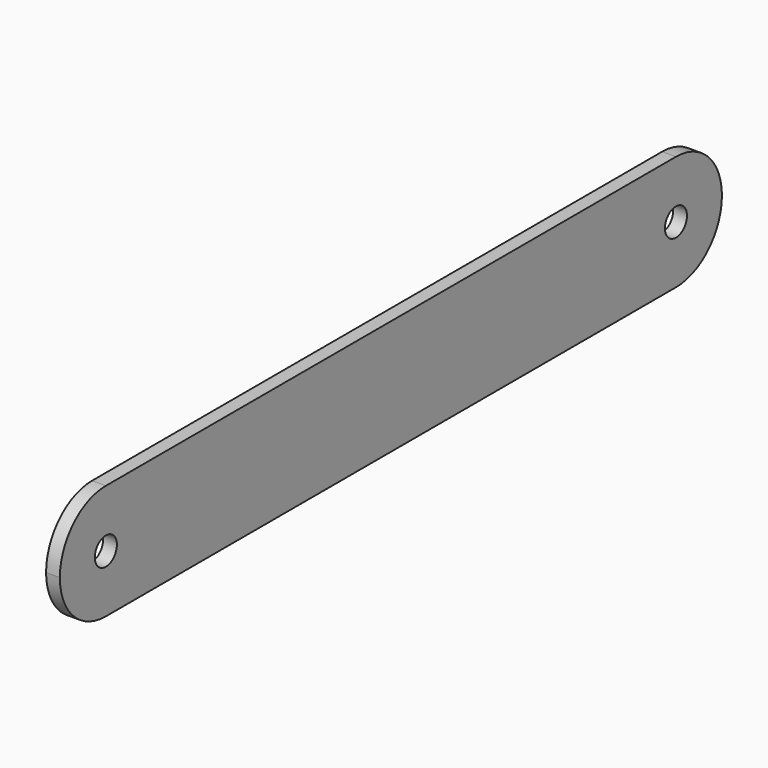
from build123d import *

# Parameters (mm, degrees)
F0_R     = 3
F1_DEPTH = 3


with BuildPart() as f1:
    # F0 (on Right) → F1 (new body)
    with BuildSketch(Plane.YZ):
        with BuildLine():
            Line((69.598682, 43.118995), (-85.401318, 43.118995))
            ThreePointArc((-85.401318, 43.118995), (-94.240152, 39.45783), (-97.901318, 30.618995))
            ThreePointArc((-97.901318, 30.618995), (-94.240152, 21.78016), (-85.401318, 18.118995))
            Line((-85.401318, 18.118995), (69.598682, 18.118995))
            ThreePointArc((69.598682, 18.118995), (78.437517, 21.78016), (82.098682, 30.618995))
            ThreePointArc((82.098682, 30.618995), (78.437517, 39.45783), (69.598682, 43.118995))
        make_face()
        with Locations((-85.401318, 30.618995)):
            Circle(F0_R, mode=Mode.SUBTRACT)
        with Locations((69.598682, 30.618995)):
            Circle(F0_R, mode=Mode.SUBTRACT)
    extrude(amount=F1_DEPTH)


solid = f1.part
